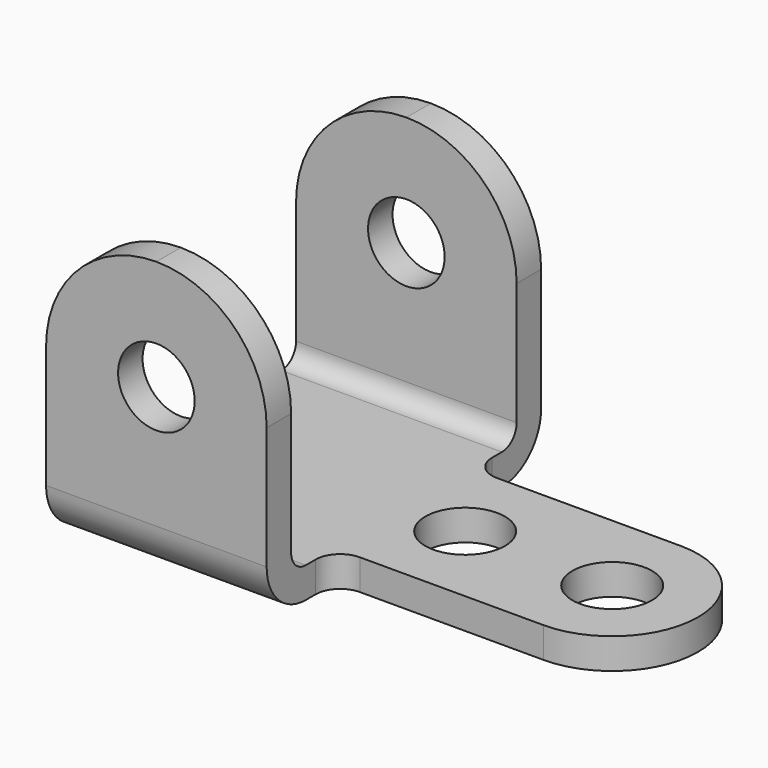
from build123d import *

# Parameters (mm, degrees)
F1_DEPTH = 57.15
F2_R     = 9.92251
F3_DEPTH = 88.901
F4_R     = 10.3251
F5_DEPTH = 7.9375


with BuildPart() as f1:
    # F0 (on Right) → F1 (new body)
    with BuildSketch(Plane.YZ):
        with BuildLine():
            Line((31.75, 0), (0, 0))
            Line((0, 0), (-31.75, 0))
            ThreePointArc((-31.75, 0), (-35.117596, 1.394904), (-36.5125, 4.7625))
            Line((-36.5125, 4.7625), (-36.5125, 65.0875))
            Line((-36.5125, 65.0875), (-44.45, 65.0875))
            Line((-44.45, 65.0875), (-44.45, 4.7625))
            ThreePointArc((-44.45, 4.7625), (-40.730256, -4.217756), (-31.75, -7.9375))
            Line((-31.75, -7.9375), (0, -7.9375))
            Line((0, -7.9375), (31.75, -7.9375))
            ThreePointArc((31.75, -7.9375), (40.730256, -4.217756), (44.45, 4.7625))
            Line((44.45, 4.7625), (44.45, 65.0875))
            Line((44.45, 65.0875), (36.5125, 65.0875))
            Line((36.5125, 65.0875), (36.5125, 4.7625))
            ThreePointArc((36.5125, 4.7625), (35.117596, 1.394904), (31.75, 0))
        make_face()
    extrude(amount=F1_DEPTH)

    # F2 (on face) → F3 (cut, through all)
    with BuildSketch(Plane.XZ.offset(44.45)):
        with Locations((28.575, 36.5125)):
            Circle(F2_R)
        with BuildLine():
            Line((28.575, 65.0875), (0, 65.0875))
            Line((0, 65.0875), (0, 36.5125))
            ThreePointArc((0, 36.5125), (8.369424, 56.718076), (28.575, 65.0875))
        make_face()
        with BuildLine():
            Line((57.15, 65.0875), (28.575, 65.0875))
            ThreePointArc((28.575, 65.0875), (48.780576, 56.718076), (57.15, 36.5125))
            Line((57.15, 36.5125), (57.15, 65.0875))
        make_face()
    extrude(amount=-F3_DEPTH, mode=Mode.SUBTRACT)

    # F4 (on face) → F5 (join)
    with BuildSketch(Plane.XY):
        with BuildLine():
            ThreePointArc((63.5, 22.225), (59.009872, 24.084872), (57.15, 28.575))
            Line((57.15, 28.575), (57.15, -28.575))
            ThreePointArc((57.15, -28.575), (59.009872, -24.084872), (63.5, -22.225))
            Line((63.5, -22.225), (111.125, -22.225))
            ThreePointArc((111.125, -22.225), (133.35, 0), (111.125, 22.225))
            Line((111.125, 22.225), (63.5, 22.225))
        make_face()
        with Locations((73.025, 0)):
            Circle(F4_R, mode=Mode.SUBTRACT)
        with Locations((111.125, 0)):
            Circle(F4_R, mode=Mode.SUBTRACT)
    extrude(amount=-F5_DEPTH)


solid = f1.part
